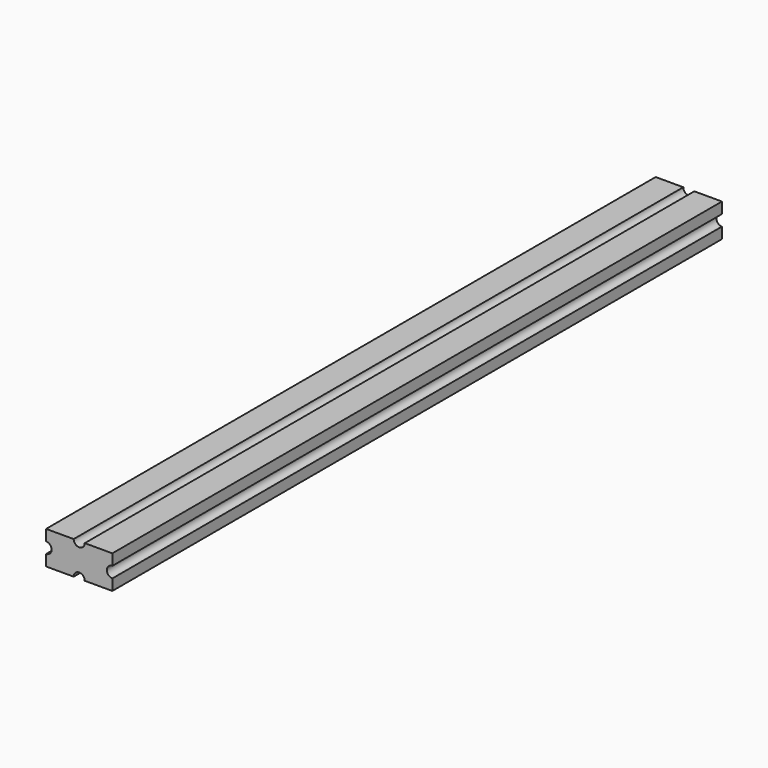
from build123d import *

# Parameters (mm, degrees)
F0_W     = 76.2
F0_H     = 38.1
F1_DEPTH = 876.3
F2_R     = 6.35
F3_DEPTH = 876.3
F4_R     = 6.35
F5_DEPTH = 876.3


with BuildPart() as f1:
    # F0 (on Front) → F1 (new body)
    with BuildSketch(Plane.XZ):
        with Locations((-70.408251, 44.989463)):
            Rectangle(F0_W, F0_H)
    extrude(amount=F1_DEPTH)

    # F2 (on face) → F3 (cut)
    with BuildSketch(Plane.XZ.offset(876.3)):
        with Locations((-70.408251, 64.039463)):
            Circle(F2_R)
    extrude(amount=-F3_DEPTH, mode=Mode.SUBTRACT)

    # F4 (on face) → F5 (cut)
    with BuildSketch(Plane.XZ.offset(876.3)):
        with Locations((-32.308251, 44.989463)):
            Circle(F4_R)
        with Locations((-108.508251, 44.989463)):
            Circle(F4_R)
        with Locations((-70.408251, 25.939463)):
            Circle(F4_R)
    extrude(amount=-F5_DEPTH, mode=Mode.SUBTRACT)


solid = f1.part
